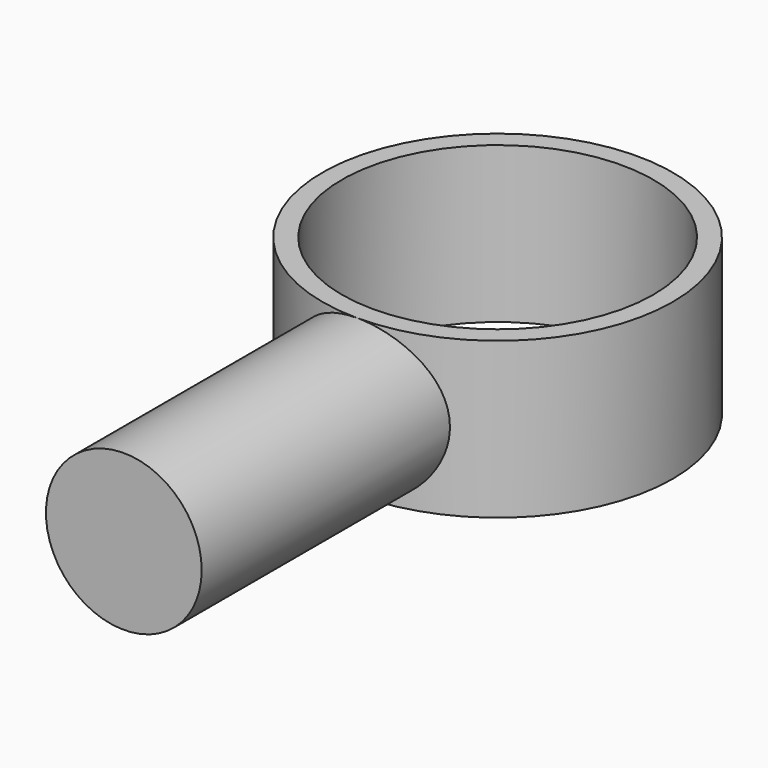
from build123d import *

# Parameters (mm, degrees)
F0_R          = 6.35
F1_DEPTH      = 25.4
F2_R          = 14.2875
F3_DEPTH      = 6.35
F3_DEPTH_BACK = 6.35


with BuildPart() as f1:
    # F0 (on Front) → F1 (new body)
    with BuildSketch(Plane.XZ):
        Circle(F0_R)
    extrude(amount=F1_DEPTH)

    # F2 (on Top) → F3 (join, two sides)
    with BuildSketch(Plane.XY) as f3_sk:
        with Locations((0, 12.7)):
            Circle(F2_R)
        with BuildLine():
            ThreePointArc((0, 0), (-8.980256, 21.680256), (12.7, 12.7))
            ThreePointArc((12.7, 12.7), (8.980256, 3.719744), (0, 0))
        make_face(mode=Mode.SUBTRACT)
    extrude(amount=F3_DEPTH)
    extrude(f3_sk.sketch, amount=-F3_DEPTH_BACK)


solid = f1.part
